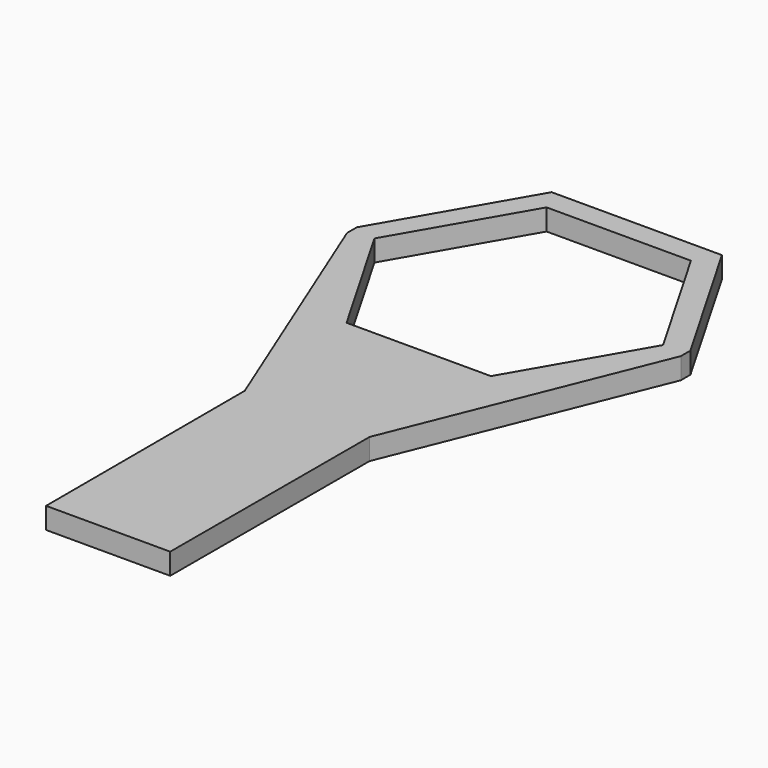
from build123d import *

# Parameters (mm, degrees)
F0_W     = 94.106388
F0_H     = 83.2
F1_DEPTH = 6
F3_DEPTH = 6.001
F5_DEPTH = 6


with BuildPart() as f1:
    # F0 (on Top) → F1 (new body)
    with BuildSketch(Plane.XY):
        with Locations((47.053194, 41.6)):
            Rectangle(F0_W, F0_H)
        Polygon((67.404791, 6.35), (26.701597, 6.35), (6.35, 41.6), (26.701597, 76.85), (67.404791, 76.85), (87.756388, 41.6), align=None, mode=Mode.SUBTRACT)
    extrude(amount=F1_DEPTH)

    # F2 (on face) → F3 (cut, through all)
    with BuildSketch(Plane.XY.offset(6)):
        Polygon((0, 83.2), (0, 43.301477), (23.035423, 83.2), align=None)
        Polygon((94.106388, 83.2), (71.070965, 83.2), (94.106388, 43.301477), align=None)
        Polygon((94.106388, 39.898523), (71.070965, 0), (94.106388, 0), align=None)
        Polygon((23.035423, 0), (0, 39.898523), (0, 0), align=None)
    extrude(amount=-F3_DEPTH, mode=Mode.SUBTRACT)

    # F4 (on face) → F5 (join)
    with BuildSketch(Plane.XY.offset(6)):
        Polygon((23.035423, 0), (0, 39.898523), (29.44789, -32.987564), (29.553194, -103.15), (64.553194, -103.15), (64.658498, -32.987564), (94.106388, 39.898523), (71.070965, 0), align=None)
    extrude(amount=-F5_DEPTH)


solid = f1.part
